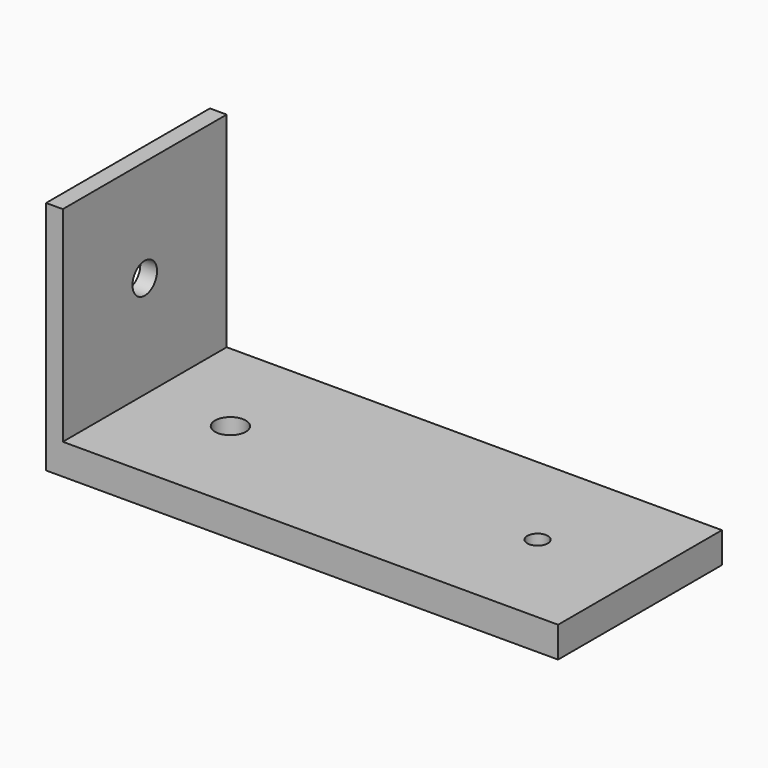
from build123d import *

# Parameters (mm, degrees)
F0_W     = 50
F0_H     = 20
F0_R     = 1.5
F0_R_2   = 1
F1_DEPTH = 3
F2_W     = 1.635674
F2_H     = 20
F3_DEPTH = 20
F5_D     = 3


with BuildPart() as f1:
    # F0 (on Top) → F1 (new body)
    with BuildSketch(Plane.XY):
        Rectangle(F0_W, F0_H)
        with Locations((-15, 0)):
            Circle(F0_R, mode=Mode.SUBTRACT)
        with Locations((15, 0)):
            Circle(F0_R_2, mode=Mode.SUBTRACT)
    extrude(amount=F1_DEPTH)

    # F2 (on face) → F3 (join)
    with BuildSketch(Plane.XY.offset(3)):
        with Locations((-24.182163, 0)):
            Rectangle(F2_W, F2_H)
    extrude(amount=F3_DEPTH)

    # F5 (through all)
    with Locations(Plane.YZ.offset(-23.364326)):
        with Locations((0, 13)):
            Hole(F5_D / 2)


solid = f1.part
